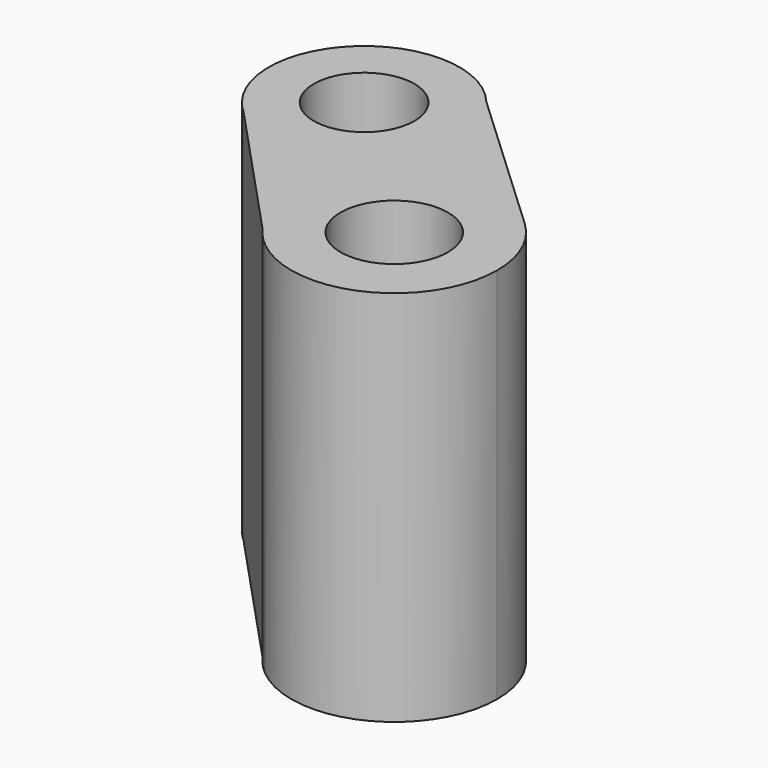
from build123d import *

# Parameters (mm, degrees)
F0_R     = 11.708772
F0_R_2   = 12.511631
F1_DEPTH = 87.884


with BuildPart() as f1:
    # F0 (on Top) → F1 (new body)
    with BuildSketch(Plane.XY):
        with BuildLine():
            ThreePointArc((-60.466758, 32.941471), (-36.576779, 29.201541), (-23.419007, 49.489252))
            ThreePointArc((-23.419007, 49.489252), (-24.717173, 56.972833), (-28.459983, 63.581963))
            ThreePointArc((-28.459983, 63.581963), (-59.487612, 66.864763), (-63.20755, 35.886503))
            Line((-63.20755, 35.886503), (-60.466758, 32.941471))
        make_face()
        with Locations((-45.638505, 49.489252)):
            Circle(F0_R, mode=Mode.SUBTRACT)
        with BuildLine():
            ThreePointArc((-28.459983, 63.581963), (-24.717173, 56.972833), (-23.419007, 49.489252))
            ThreePointArc((-23.419007, 49.489252), (-36.576779, 29.201541), (-60.466758, 32.941471))
            Line((-60.466758, 32.941471), (-28.93399, -0.941065))
            ThreePointArc((-28.93399, -0.941065), (-25.211548, 31.012543), (6.954043, 30.498322))
            Line((6.954043, 30.498322), (-28.459983, 63.581963))
        make_face()
        with BuildLine():
            ThreePointArc((-63.20755, 35.886503), (-61.903945, 34.351828), (-60.466758, 32.941471))
            Line((-60.466758, 32.941471), (-63.20755, 35.886503))
        make_face()
        with BuildLine():
            ThreePointArc((14.562543, 12.978454), (12.578309, 22.528782), (6.954043, 30.498322))
            ThreePointArc((6.954043, 30.498322), (-25.211548, 31.012543), (-28.93399, -0.941065))
            Line((-28.93399, -0.941065), (-24.697207, -5.493566))
            ThreePointArc((-24.697207, -5.493566), (0.794317, -8.71569), (14.562543, 12.978454))
        make_face()
        with Locations((-9.412947, 12.978454)):
            Circle(F0_R_2, mode=Mode.SUBTRACT)
        with BuildLine():
            Line((-24.697207, -5.493566), (-28.93399, -0.941065))
            ThreePointArc((-28.93399, -0.941065), (-26.963833, -3.35527), (-24.697207, -5.493566))
        make_face()
    extrude(amount=-F1_DEPTH)


solid = f1.part
